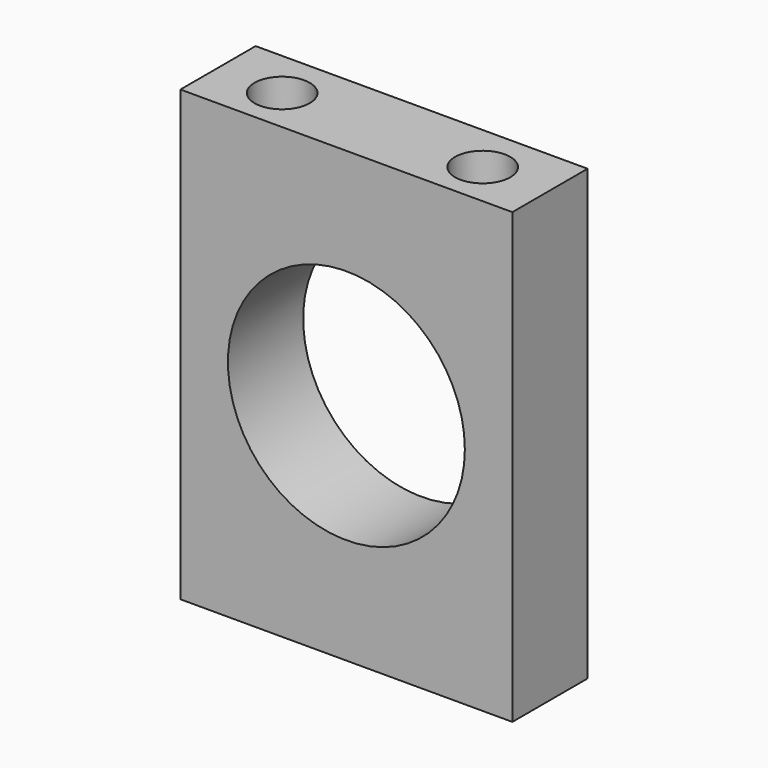
from build123d import *

# Parameters (mm, degrees)
F0_W     = 88.246942
F0_H     = 119.301722
F1_DEPTH = 25
F3_R     = 7.34388
F4_DEPTH = 15
F2_R     = 31.491044
F5_DEPTH = 25


with BuildPart() as f1:
    # F0 (on Front) → F1 (new body)
    with BuildSketch(Plane.XZ):
        Rectangle(F0_W, F0_H)
    extrude(amount=F1_DEPTH)

    # F3 (on face) → F4 (cut)
    with BuildSketch(Plane.XY.offset(59.650861)):
        with Locations((-26.653793, -13.027571)):
            Circle(F3_R)
        with Locations((26.653793, -13.027571)):
            Circle(F3_R)
    extrude(amount=-F4_DEPTH, mode=Mode.SUBTRACT)

    # F2 (on face) → F5 (cut, through all)
    with BuildSketch(Plane.XZ.offset(25)):
        Circle(F2_R)
    extrude(amount=-F5_DEPTH, mode=Mode.SUBTRACT)


solid = f1.part
